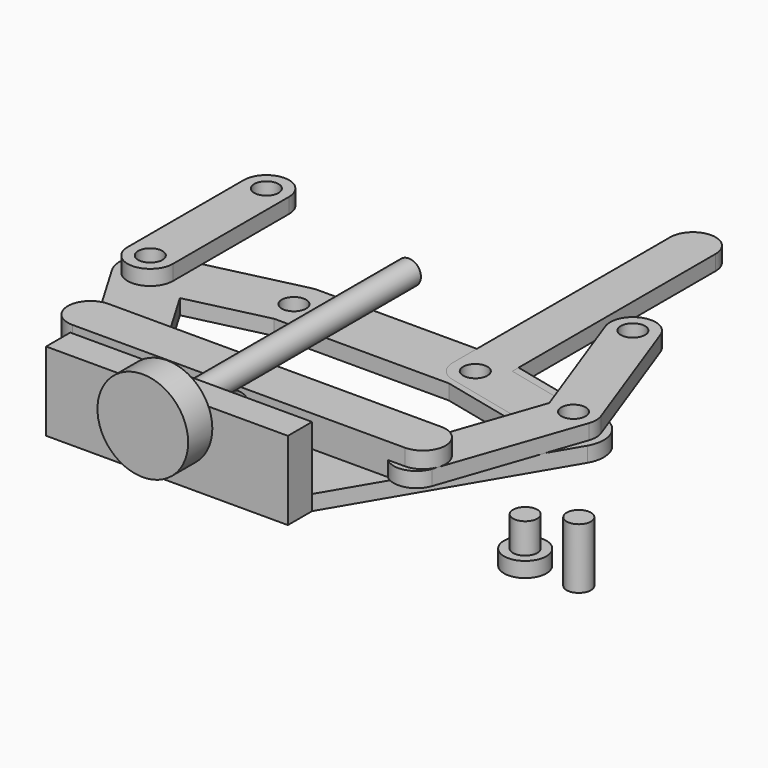
from build123d import *

# Parameters (mm, degrees)
F0_R      = 2.5527
F1_DEPTH  = 3.175
F2_R      = 2.5527
F3_DEPTH  = 3.175
F5_DEPTH  = 6.35
F6_R      = 2.5527
F7_DEPTH  = 3.175
F8_R      = 4.445
F9_DEPTH  = 3.175
F10_R     = 2.5527
F11_DEPTH = 6.35
F12_R     = 2.5527
F13_DEPTH = 3.175
F14_R     = 2.5527
F15_DEPTH = 12.7
F17_DEPTH = 0.254
F18_R     = 2.5527
F19_DEPTH = 9.525
F20_W     = 50.8
F20_H     = 16.51
F20_R     = 2.5527
F21_DEPTH = 6.35
F22_R     = 2.5527
F23_DEPTH = 63.5
F24_R     = 9.525
F25_DEPTH = 6.35


with BuildPart() as f1:
    # F0 (on Top) → F1 (new body)
    with BuildSketch(Plane.XY):
        with BuildLine():
            Line((45.9055823245, 51.0249673382), (20.5055823245, 56.9939673382))
            ThreePointArc((20.5055823245, 56.9939673382), (19.7826647621, 57.1203760676), (19.05, 57.1627))
            Line((19.05, 57.1627), (-19.05, 57.1627))
            ThreePointArc((-19.05, 57.1627), (-19.7826647621, 57.1203760676), (-20.5055823245, 56.9939673382))
            Line((-20.5055823245, 56.9939673382), (-45.9055823245, 51.0249673382))
            ThreePointArc((-45.9055823245, 51.0249673382), (-50.3015058595, 47.3297657885), (-49.9307303532, 41.5990429944))
            Line((-49.9307303532, 41.5990429944), (-25.4, 0))
            Line((-25.4, 0), (25.4, 0))
            Line((25.4, 0), (49.9307303532, 41.5990429944))
            ThreePointArc((49.9307303532, 41.5990429944), (50.3015058595, 47.3297657885), (45.9055823245, 51.0249673382))
        make_face()
        with Locations((-44.45, 44.831)):
            Circle(F0_R, mode=Mode.SUBTRACT)
        with Locations((-19.05, 50.8)):
            Circle(F0_R, mode=Mode.SUBTRACT)
        Polygon((-18.2905051072, 12.4459990885), (-35.0108183366, 40.8001907044), (-18.3448174552, 44.7167009115), (18.3448174552, 44.7167009115), (35.0108183366, 40.8001907044), (18.2905051072, 12.4459990885), align=None, mode=Mode.SUBTRACT)
        with Locations((19.05, 50.8)):
            Circle(F0_R, mode=Mode.SUBTRACT)
        with Locations((44.45, 44.831)):
            Circle(F0_R, mode=Mode.SUBTRACT)
    extrude(amount=F1_DEPTH)

    # F20 (on face) → F21 (join)
    with BuildSketch(Plane.XZ):
        with Locations((0, 8.255)):
            Rectangle(F20_W, F20_H)
        with Locations((0, 12.7)):
            Circle(F20_R, mode=Mode.SUBTRACT)
    extrude(amount=F21_DEPTH)


with BuildPart() as f3:
    # F2 (on face) → F3 (new body)
    with BuildSketch(Plane.XY.offset(3.175)):
        with BuildLine():
            ThreePointArc((-49.2125, 44.831), (-44.45, 40.0685), (-39.6875, 44.831))
            ThreePointArc((-39.6875, 44.831), (-44.45, 49.5935), (-49.2125, 44.831))
        make_face()
        with Locations((-44.45, 44.831)):
            Circle(F2_R, mode=Mode.SUBTRACT)
        with BuildLine():
            ThreePointArc((-49.2125, 44.831), (-44.45, 49.5935), (-39.6875, 44.831))
            Line((-39.6875, 44.831), (-39.6875, 75.311))
            ThreePointArc((-39.6875, 75.311), (-44.45, 70.5485), (-49.2125, 75.311))
            Line((-49.2125, 75.311), (-49.2125, 44.831))
        make_face()
        with BuildLine():
            ThreePointArc((-49.2125, 75.311), (-44.45, 70.5485), (-39.6875, 75.311))
            ThreePointArc((-39.6875, 75.311), (-44.45, 80.0735), (-49.2125, 75.311))
        make_face()
        with Locations((-44.45, 75.311)):
            Circle(F2_R, mode=Mode.SUBTRACT)
    extrude(amount=F3_DEPTH)


with BuildPart() as f5:
    # F4 (on face) → F5 (new body)
    with BuildSketch(Plane.XY.offset(3.175)):
        with BuildLine():
            Line((34.925, 19.7611990885), (34.925, 21.9709990885))
            Line((34.925, 21.9709990885), (-34.925, 21.9709990885))
            Line((-34.925, 21.9709990885), (-34.925, 19.7611990885))
            Line((-34.925, 19.7611990885), (-9.525, 19.7611990885))
            ThreePointArc((-9.525, 19.7611990885), (-6.9723, 17.2084990885), (-9.525, 14.6557990885))
            Line((-9.525, 14.6557990885), (-34.925, 14.6557990885))
            Line((-34.925, 14.6557990885), (-34.925, 12.4459990885))
            Line((-34.925, 12.4459990885), (34.925, 12.4459990885))
            Line((34.925, 12.4459990885), (34.925, 14.6557990885))
            Line((34.925, 14.6557990885), (9.525, 14.6557990885))
            ThreePointArc((9.525, 14.6557990885), (6.9723, 17.2084990885), (9.525, 19.7611990885))
            Line((9.525, 19.7611990885), (34.925, 19.7611990885))
        make_face()
        with BuildLine():
            ThreePointArc((34.925, 12.4459990885), (39.6875, 17.2084990885), (34.925, 21.9709990885))
            Line((34.925, 21.9709990885), (34.925, 19.7611990885))
            ThreePointArc((34.925, 19.7611990885), (37.4777, 17.2084990885), (34.925, 14.6557990885))
            Line((34.925, 14.6557990885), (34.925, 12.4459990885))
        make_face()
        with BuildLine():
            Line((-34.925, 19.7611990885), (-34.925, 21.9709990885))
            ThreePointArc((-34.925, 21.9709990885), (-39.6875, 17.2084990885), (-34.925, 12.4459990885))
            Line((-34.925, 12.4459990885), (-34.925, 14.6557990885))
            ThreePointArc((-34.925, 14.6557990885), (-37.4777, 17.2084990885), (-34.925, 19.7611990885))
        make_face()
    extrude(amount=F5_DEPTH)

    # F16 (on face) → F17 (join)
    with BuildSketch(Plane.XY.offset(9.525)):
        with BuildLine():
            ThreePointArc((34.925, 12.4459990885), (39.6875, 17.2084990885), (34.925, 21.9709990885))
            Line((34.925, 21.9709990885), (-34.925, 21.9709990885))
            ThreePointArc((-34.925, 21.9709990885), (-39.6875, 17.2084990885), (-34.925, 12.4459990885))
            Line((-34.925, 12.4459990885), (34.925, 12.4459990885))
        make_face()
    extrude(amount=F17_DEPTH)

    # F18 (on face) → F19 (cut, through all)
    with BuildSketch(Plane.XZ.offset(-12.4459990885)):
        with Locations((0, 6.35)):
            Circle(F18_R)
    extrude(amount=-F19_DEPTH, mode=Mode.SUBTRACT)


with BuildPart() as f7:
    # F6 (on face) → F7 (new body)
    with BuildSketch(Plane.XY.offset(3.175)):
        with BuildLine():
            Line((39.0161431063, 14.4635008355), (48.9523388408, 43.2784694165))
            ThreePointArc((48.9523388408, 43.2784694165), (49.2123278263, 44.8714959854), (48.9252861065, 46.4598709326))
            Line((48.9252861065, 46.4598709326), (38.5005121379, 75.1017020141))
            ThreePointArc((38.5005121379, 75.1017020141), (32.3963550988, 77.948117188), (29.5499399249, 71.843960149))
            Line((29.5499399249, 71.843960149), (39.3974907989, 44.7880364859))
            Line((39.3974907989, 44.7880364859), (30.0114654247, 17.5685620025))
            ThreePointArc((30.0114654247, 17.5685620025), (35.3008930536, 20.7130408388), (39.2763042655, 16.016031419))
            ThreePointArc((39.2763042655, 16.016031419), (39.2108136853, 15.2289426309), (39.0161431063, 14.4635008355))
        make_face()
        with Locations((34.0252260314, 73.4728310816)):
            Circle(F6_R, mode=Mode.SUBTRACT)
        with Locations((44.45, 44.831)):
            Circle(F6_R, mode=Mode.SUBTRACT)
        with BuildLine():
            ThreePointArc((30.0114654247, 17.5685620025), (32.9612736819, 11.5136925782), (39.0161431063, 14.4635008355))
            ThreePointArc((39.0161431063, 14.4635008355), (39.2108136853, 15.2289426309), (39.2763042655, 16.016031419))
            ThreePointArc((39.2763042655, 16.016031419), (35.3008930536, 20.7130408388), (30.0114654247, 17.5685620025))
        make_face()
        with Locations((34.5138042655, 16.016031419)):
            Circle(F6_R, mode=Mode.SUBTRACT)
    extrude(amount=F7_DEPTH)


with BuildPart() as f9:
    # F8 (on Top) → F9 (new body)
    with BuildSketch(Plane.XY):
        with Locations((64.7914484143, 6.7279278301)):
            Circle(F8_R)
    extrude(amount=F9_DEPTH)

    # F10 (on face) → F11 (join)
    with BuildSketch(Plane.XY.offset(3.175)):
        with Locations((64.7914484143, 6.7279278301)):
            Circle(F10_R)
    extrude(amount=F11_DEPTH)


with BuildPart() as f13:
    # F12 (on Top) → F13 (new body)
    with BuildSketch(Plane.XY):
        with BuildLine():
            ThreePointArc((17.9604922721, 46.1637969025), (22.0074165834, 47.0670261986), (23.8125, 50.8))
            ThreePointArc((23.8125, 50.8), (22.7829738014, 53.7574165834), (20.1395077279, 55.4362030975))
            ThreePointArc((20.1395077279, 55.4362030975), (16.0925834166, 54.5329738014), (14.2875, 50.8))
            ThreePointArc((14.2875, 50.8), (15.3170261986, 47.8425834166), (17.9604922721, 46.1637969025))
        make_face()
        with Locations((19.05, 50.8)):
            Circle(F12_R, mode=Mode.SUBTRACT)
        with BuildLine():
            Line((23.8125, 54.5730499135), (23.8125, 50.8))
            ThreePointArc((23.8125, 50.8), (22.0074165834, 47.0670261986), (17.9604922721, 46.1637969025))
            Line((17.9604922721, 46.1637969025), (43.3604922721, 40.1947969025))
            ThreePointArc((43.3604922721, 40.1947969025), (39.8137969025, 45.9205077279), (45.5395077279, 49.4672030975))
            Line((45.5395077279, 49.4672030975), (23.8125, 54.5730499135))
        make_face()
        with BuildLine():
            ThreePointArc((20.1395077279, 55.4362030975), (22.7829738014, 53.7574165834), (23.8125, 50.8))
            Line((23.8125, 50.8), (23.8125, 54.5730499135))
            Line((23.8125, 54.5730499135), (20.1395077279, 55.4362030975))
        make_face()
        with BuildLine():
            ThreePointArc((14.2875, 50.8), (16.0925834166, 54.5329738014), (20.1395077279, 55.4362030975))
            Line((20.1395077279, 55.4362030975), (23.8125, 54.5730499135))
            Line((23.8125, 54.5730499135), (23.8125, 107.95))
            ThreePointArc((23.8125, 107.95), (19.05, 103.1875), (14.2875, 107.95))
            Line((14.2875, 107.95), (14.2875, 50.8))
        make_face()
        with BuildLine():
            ThreePointArc((45.5395077279, 49.4672030975), (39.8137969025, 45.9205077279), (43.3604922721, 40.1947969025))
            ThreePointArc((43.3604922721, 40.1947969025), (47.4074165834, 41.0980261986), (49.2125, 44.831))
            ThreePointArc((49.2125, 44.831), (48.1829738014, 47.7884165834), (45.5395077279, 49.4672030975))
        make_face()
        with Locations((44.45, 44.831)):
            Circle(F12_R, mode=Mode.SUBTRACT)
        with BuildLine():
            ThreePointArc((14.2875, 107.95), (19.05, 103.1875), (23.8125, 107.95))
            ThreePointArc((23.8125, 107.95), (19.05, 112.7125), (14.2875, 107.95))
        make_face()
    extrude(amount=F13_DEPTH)


with BuildPart() as f15:
    # F14 (on Top) → F15 (new body)
    with BuildSketch(Plane.XY):
        with Locations((76.1240646243, 6.6376398318)):
            Circle(F14_R)
    extrude(amount=F15_DEPTH)


with BuildPart() as f23:
    # F22 (on face) → F23 (new body)
    with BuildSketch(Plane.XZ.offset(6.35)):
        with Locations((0, 12.7)):
            Circle(F22_R)
    extrude(amount=-F23_DEPTH)

    # F24 (on face) → F25 (join)
    with BuildSketch(Plane.XZ.offset(6.35)):
        with Locations((0, 12.7)):
            Circle(F24_R)
    extrude(amount=F25_DEPTH)


solid = Compound([f1.part, f3.part, f5.part, f7.part, f9.part, f13.part, f15.part, f23.part])
